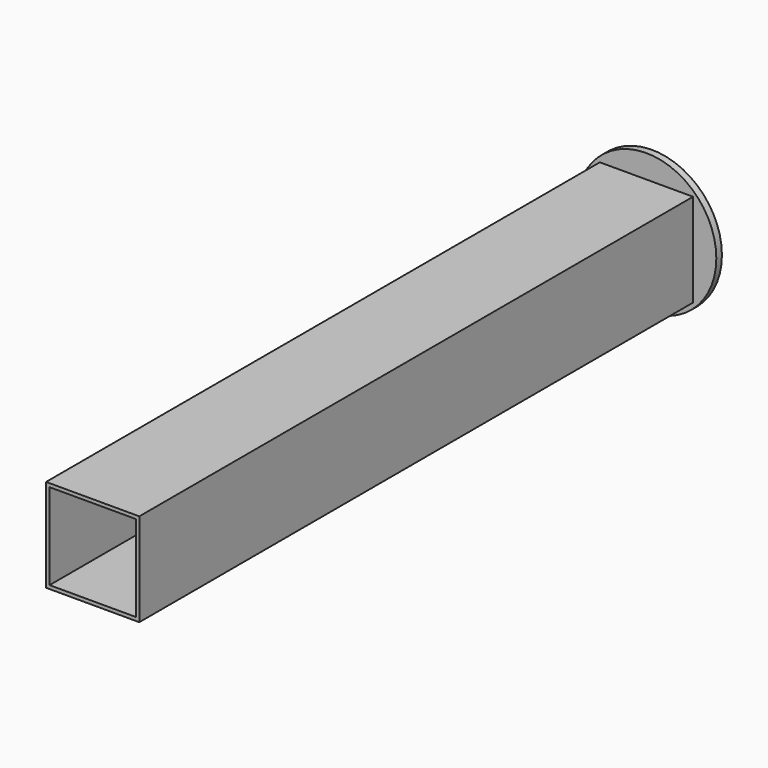
from build123d import *

# Parameters (mm, degrees)
F0_W     = 40
F0_H     = 40
F0_W_2   = 37
F0_H_2   = 37
F1_DEPTH = 300
F2_R     = 30
F3_DEPTH = 3


with BuildPart() as f1:
    # F0 (on Front) → F1 (new body)
    with BuildSketch(Plane.XZ):
        Rectangle(F0_W, F0_H)
        Rectangle(F0_W_2, F0_H_2, mode=Mode.SUBTRACT)
    extrude(amount=F1_DEPTH)

    # F2 (on Front) → F3 (join)
    with BuildSketch(Plane.XZ):
        Circle(F2_R)
    extrude(amount=F3_DEPTH)


solid = f1.part
